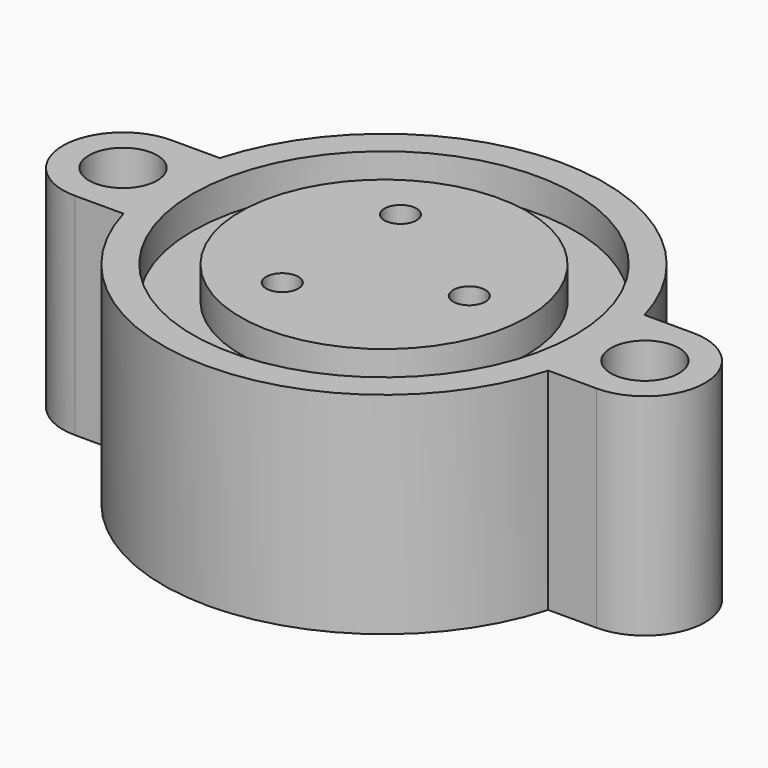
from build123d import *

# Parameters (mm, degrees)
CYLINDER150_R       = 1.7
CYLINDER150_DEPTH   = 11
CYLINDER154_R       = 7.14375
CYLINDER154_DEPTH   = 2.38125
CYLINDER155_R       = 9.525
CYLINDER155_DEPTH   = 2.38125
CYLINDER157_R       = 2.2
CYLINDER157_DEPTH   = 9
CYLINDER156_R       = 0.8
CYLINDER156_DEPTH   = 5
CYLINDER147_R       = 2.575
CYLINDER147_DEPTH   = 6
ARRAY_COUNT         = 3
CYLINDER151_R       = 1.7
CYLINDER151_DEPTH   = 11
BOX001_W            = 3
BOX001_H            = 6
BOX001_DEPTH        = 10.5
BOX_W               = 3
BOX_H               = 6
BOX_DEPTH           = 10.5
CYLINDER_R          = 3
CYLINDER_DEPTH      = 10.5
CYLINDER153_R       = 11
CYLINDER153_DEPTH   = 10.5
CYLINDER158_R       = 3
CYLINDER158_DEPTH   = 10.5
CUT_PLACEMENT_ANGLE = 180


with BuildPart() as obj1:
    # Cylinder150 → Cylinder150 (new body)
    with BuildSketch(Plane(origin=(-13, 0, 0), x_dir=(1, 0, 0), z_dir=(0, 0, 1))):
        Circle(CYLINDER150_R)
    extrude(amount=CYLINDER150_DEPTH)


with BuildPart() as cylinder008:
    # Cylinder154 → Cylinder154 (new body)
    with BuildSketch(Plane.XY):
        Circle(CYLINDER154_R)
    extrude(amount=CYLINDER154_DEPTH)


with BuildPart() as oring:
    # Cylinder155 → Cylinder155 (new body)
    with BuildSketch(Plane.XY):
        Circle(CYLINDER155_R)
    extrude(amount=CYLINDER155_DEPTH)

    # Cut019: cut Cylinder008
    add(cylinder008.part, mode=Mode.SUBTRACT)


with BuildPart() as oring_1:
    # Cut019 placement: moved
    add(oring.part.moved(Location((0, 0, -0.75))))


with BuildPart() as sealsubtraction:
    # Cylinder157 → Cylinder157 (new body)
    with BuildSketch(Plane.XY.offset(1.3)):
        Circle(CYLINDER157_R)
    extrude(amount=CYLINDER157_DEPTH)


with BuildPart() as bottomwireoutlet:
    # Cylinder156 → Cylinder156 (new body)
    with BuildSketch(Plane.XY.offset(-2)):
        Circle(CYLINDER156_R)
    extrude(amount=CYLINDER156_DEPTH)


with BuildPart() as sealarray:
    # Cylinder147 → Cylinder147 (new body)
    with BuildSketch(Plane.XY.offset(4.5)):
        Circle(CYLINDER147_R)
    extrude(amount=CYLINDER147_DEPTH)

    # Fusion: union SealSubtraction, BottomWireOutlet
    add(sealsubtraction.part)
    add(bottomwireoutlet.part)


with BuildPart() as sealarray_1:
    # Fusion placement: moved
    add(sealarray.part.moved(Location((4.25, 0, 0))))

    # Array: SealArray ×3 about axis
    array_axis = Axis((0, 0, 0), (0, 0, 1))


with BuildPart() as sealarray_2:
    add(sealarray_1.part)
    for i in range(1, ARRAY_COUNT):
        add(sealarray_1.part.rotate(array_axis, i * 360 / ARRAY_COUNT))


with BuildPart() as fusion002:
    # Cylinder151 → Cylinder151 (new body)
    with BuildSketch(Plane(origin=(13, 0, 0), x_dir=(1, 0, 0), z_dir=(0, 0, 1))):
        Circle(CYLINDER151_R)
    extrude(amount=CYLINDER151_DEPTH)

    # Fusion002: union obj1, Oring, SealArray
    add(obj1.part)
    add(oring_1.part)
    add(sealarray_2.part)


with BuildPart() as mountcube002:
    # Box001 → Box001 (new body)
    with BuildSketch(Plane(origin=(10, -3, 0), x_dir=(1, 0, 0), z_dir=(0, 0, 1))):
        with Locations((1.5, 3)):
            Rectangle(BOX001_W, BOX001_H)
    extrude(amount=BOX001_DEPTH)


with BuildPart() as mountcube1:
    # Box → Box (new body)
    with BuildSketch(Plane(origin=(-13, -3, 0), x_dir=(1, 0, 0), z_dir=(0, 0, 1))):
        with Locations((1.5, 3)):
            Rectangle(BOX_W, BOX_H)
    extrude(amount=BOX_DEPTH)


with BuildPart() as mountflange1:
    # Cylinder → Cylinder (new body)
    with BuildSketch(Plane(origin=(-13, 0, 0), x_dir=(1, 0, 0), z_dir=(0, 0, 1))):
        Circle(CYLINDER_R)
    extrude(amount=CYLINDER_DEPTH)


with BuildPart() as body:
    # Cylinder153 → Cylinder153 (new body)
    with BuildSketch(Plane.XY):
        Circle(CYLINDER153_R)
    extrude(amount=CYLINDER153_DEPTH)


with BuildPart() as cut:
    # Cylinder158 → Cylinder158 (new body)
    with BuildSketch(Plane(origin=(13, 0, 0), x_dir=(1, 0, 0), z_dir=(0, 0, 1))):
        Circle(CYLINDER158_R)
    extrude(amount=CYLINDER158_DEPTH)

    # Fusion001: union MountCube002, MountCube1, MountFlange1, Body
    add(mountcube002.part)
    add(mountcube1.part)
    add(mountflange1.part)
    add(body.part)

    # Cut: cut Fusion002
    add(fusion002.part, mode=Mode.SUBTRACT)


with BuildPart() as cut_1:
    # Cut placement: moved
    add(cut.part.rotate(Axis((0, 0, 0), (1, 0, 0)), CUT_PLACEMENT_ANGLE))


solid = cut_1.part
